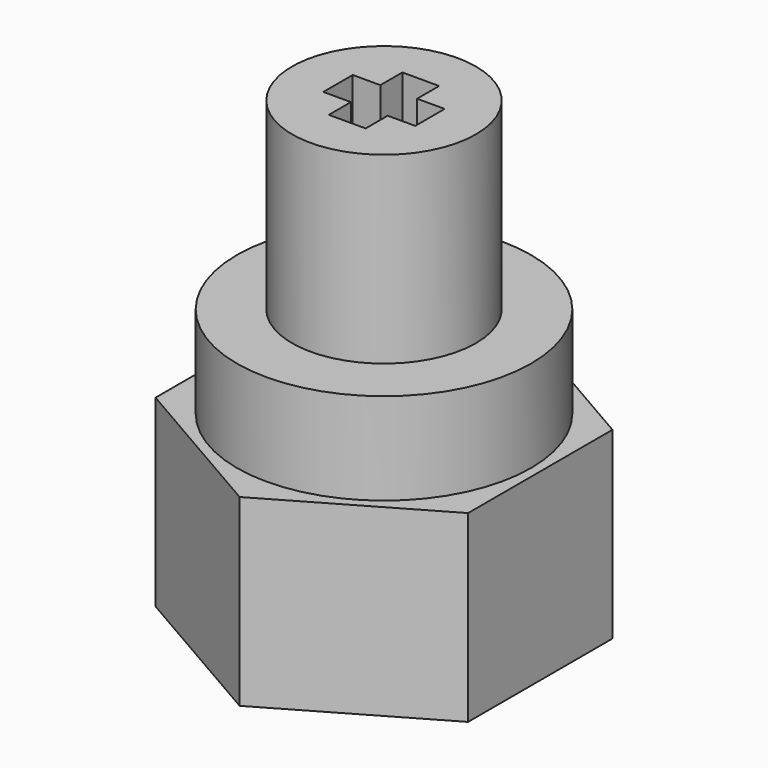
from build123d import *

# Parameters (mm, degrees)
PAD006_DEPTH      = 10
CYLINDER010_R     = 5
CYLINDER010_DEPTH = 15
PAD_DEPTH         = 6.5
PAD001_DEPTH      = 4
PAD002_DEPTH      = 10
CYLINDER011_R     = 8
CYLINDER011_DEPTH = 5


with BuildPart() as body004:
    # Sketch006 → Pad006 (new body)
    with BuildSketch(Plane.XY):
        Polygon((0, -2.5), (-1, -2.5), (-1, -1), (-2.5, -1), (-2.5, 0), (-2.5, 1), (-1, 1), (-1, 2.5), (0, 2.5), (1, 2.5), (1, 1), (2.5, 1), (2.5, 0), (2.5, -1), (1, -1), (1, -2.5), align=None)
    extrude(amount=PAD006_DEPTH)


with BuildPart() as body004_1:
    # Body004 placement: moved
    add(body004.part.moved(Location((0, 0, 15))))


with BuildPart() as cut010:
    # Cylinder010 → Cylinder010 (new body)
    with BuildSketch(Plane.XY.offset(10)):
        Circle(CYLINDER010_R)
    extrude(amount=CYLINDER010_DEPTH)

    # Cut010: cut Body004
    add(body004_1.part, mode=Mode.SUBTRACT)


with BuildPart() as cuerpo:
    # Sketch → Pad (new body)
    with BuildSketch(Plane.XY):
        Polygon((0, 7.505553), (-6.5, 3.752777), (-6.5, -3.752777), (0, -7.505553), (6.5, -3.752777), (6.5, 3.752777), align=None)
    extrude(amount=PAD_DEPTH)

    # Sketch001 (on Face8 of Pad) → Pad001 (join)
    with BuildSketch(Plane.XY.offset(6.5)):
        Polygon((0, 5.773503), (-5, 2.886751), (-5, -2.886751), (0, -5.773503), (5, -2.886751), (5, 2.886751), align=None)
    extrude(amount=PAD001_DEPTH)


with BuildPart() as cut009:
    # Sketch002 → Pad002 (new body)
    with BuildSketch(Plane.XY):
        Polygon((0, 9.814955), (-8.5, 4.907477), (-8.5, -4.907477), (0, -9.814955), (8.5, -4.907477), (8.5, 4.907477), align=None)
    extrude(amount=PAD002_DEPTH)

    # Cut009: cut Cuerpo
    add(cuerpo.part, mode=Mode.SUBTRACT)


with BuildPart() as union_motor:
    # Cylinder011 → Cylinder011 (new body)
    with BuildSketch(Plane.XY.offset(10)):
        Circle(CYLINDER011_R)
    extrude(amount=CYLINDER011_DEPTH)

    # Fusion004: union Cut010, Cut009
    add(cut010.part)
    add(cut009.part)


solid = union_motor.part
